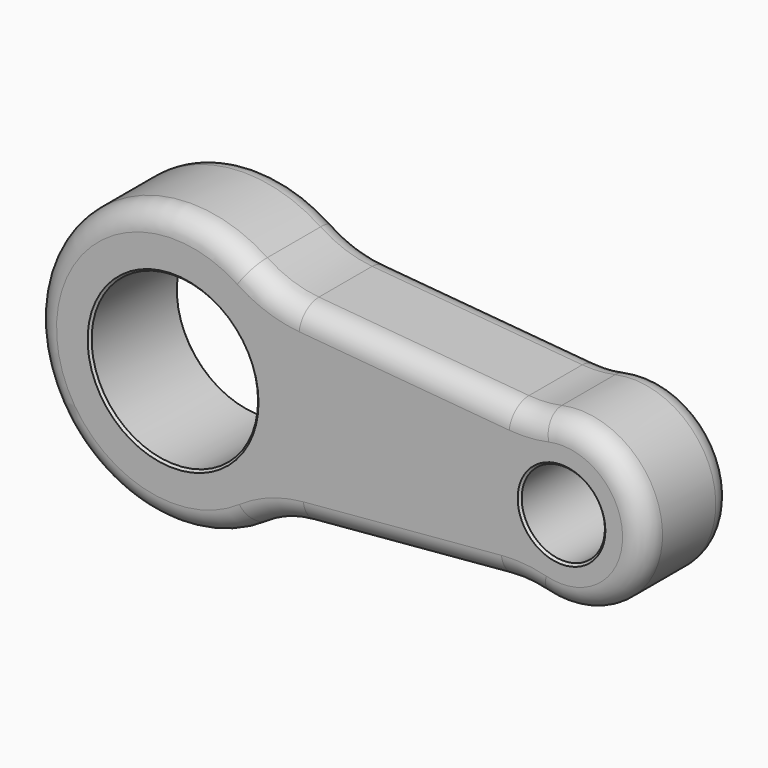
from build123d import *

# Parameters (mm, degrees)
F0_R     = 19.05
F0_R_2   = 9.525
F1_DEPTH = 12.7
F2_R     = 5.08
F3_SIZE  = 0.508


with BuildPart() as f1:
    # F0 (on Front) → F1 (new body, symmetric)
    with BuildSketch(Plane.XZ):
        with BuildLine():
            ThreePointArc((29.306325, 22.368523), (23.151754, 23.689977), (17.511156, 26.484371))
            ThreePointArc((17.511156, 26.484371), (-31.748308, -0.327731), (18.054151, -26.117238))
            ThreePointArc((18.054151, -26.117238), (23.882044, -23.116795), (30.283716, -21.707683))
            Line((30.283716, -21.707683), (75.603099, -17.742751))
            ThreePointArc((75.603099, -17.742751), (79.906584, -17.732206), (84.150081, -18.448327))
            ThreePointArc((84.150081, -18.448327), (107.945967, -0.391982), (84.913145, 18.628137))
            ThreePointArc((84.913145, 18.628137), (81.165755, 18.114123), (77.383583, 18.162308))
            Line((77.383583, 18.162308), (29.306325, 22.368523))
        make_face()
        Circle(F0_R, mode=Mode.SUBTRACT)
        with Locations((88.9, 0)):
            Circle(F0_R_2, mode=Mode.SUBTRACT)
    extrude(amount=F1_DEPTH, both=True)

    # F2
    f2_edges = [f1.edges().sort_by_distance(p)[0] for p in [
        (-31.748308, -12.7, -0.327731),
        (-31.748308, 12.7, -0.327731),
    ]]
    fillet(f2_edges, radius=F2_R)

    # F3
    f3_edges = [f1.edges().sort_by_distance(p)[0] for p in [
        (-19.05, -12.7, 0),
        (79.375, -12.7, 0),
        (-19.05, 12.7, 0),
        (79.375, 12.7, 0),
    ]]
    chamfer(f3_edges, length=F3_SIZE)


solid = f1.part
